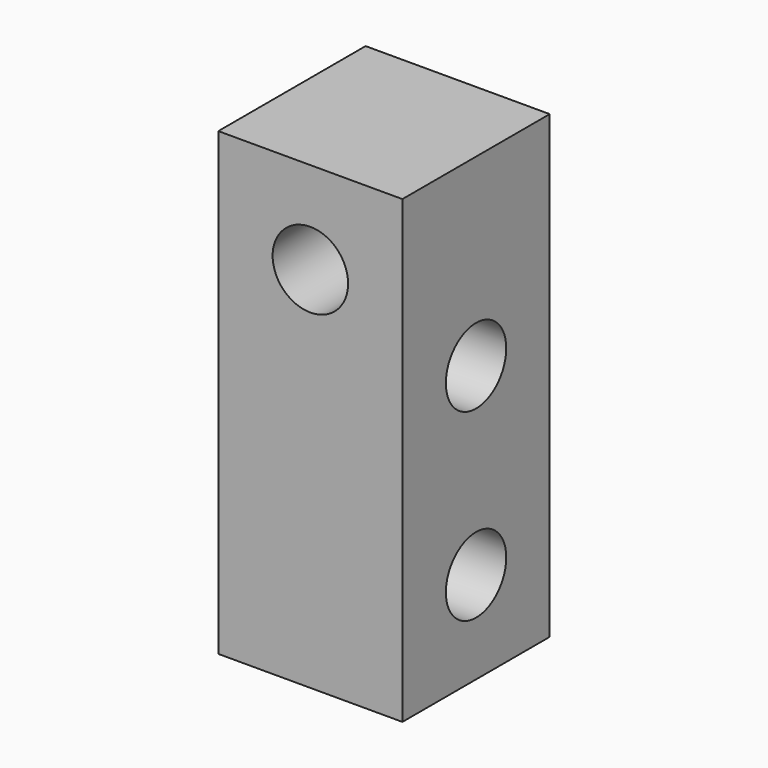
from build123d import *

# Parameters (mm, degrees)
SKETCH_W        = 20
SKETCH_H        = 20
PAD_DEPTH       = 50
SKETCH001_R     = 4.1
POCKET_DEPTH    = 20
SKETCH002_R     = 4.1
POCKET001_DEPTH = 20


with BuildPart() as part:
    # Sketch → Pad (new body)
    with BuildSketch(Plane.XY):
        with Locations((-13.292078, 23.65859)):
            Rectangle(SKETCH_W, SKETCH_H)
    extrude(amount=PAD_DEPTH)

    # Sketch001 → Pocket (cut)
    with BuildSketch(Plane.YZ.offset(-3.292078)):
        with Locations((23.65859, 10)):
            Circle(SKETCH001_R)
        with Locations((23.65859, 30)):
            Circle(SKETCH001_R)
    extrude(amount=-POCKET_DEPTH, mode=Mode.SUBTRACT)

    # Sketch002 → Pocket001 (cut)
    with BuildSketch(Plane.XZ.offset(-13.65859)):
        with Locations((-13.292078, 40)):
            Circle(SKETCH002_R)
    extrude(amount=-POCKET001_DEPTH, mode=Mode.SUBTRACT)


solid = part.part
